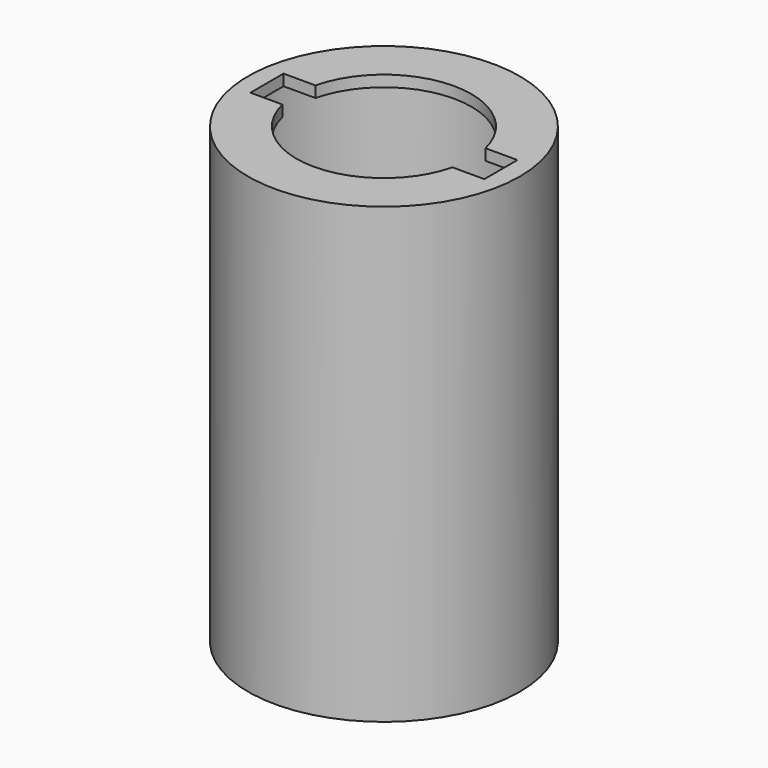
from build123d import *

# Parameters (mm, degrees)
F0_R     = 17.075
F0_R_2   = 16.075
F1_DEPTH = 57
F2_R     = 16.075
F3_DEPTH = 1.4
F4_R     = 16.075
F4_R_2   = 9.7
F5_DEPTH = 1.5


with BuildPart() as f1:
    # F0 (on Top) → F1 (new body)
    with BuildSketch(Plane.XY):
        Circle(F0_R)
        Circle(F0_R_2, mode=Mode.SUBTRACT)
    extrude(amount=-F1_DEPTH)

    # F2 (on face) → F3 (join)
    with BuildSketch(Plane.XY):
        Circle(F2_R)
        with BuildLine():
            ThreePointArc((-10.6883113727, 2.6), (0, 11), (10.6883113727, 2.6))
            Line((10.6883113727, 2.6), (14.7, 2.6))
            Line((14.7, 2.6), (14.7, 0))
            Line((14.7, 0), (14.7, -2.6))
            Line((14.7, -2.6), (10.6883113727, -2.6))
            ThreePointArc((10.6883113727, -2.6), (0, -11), (-10.6883113727, -2.6))
            Line((-10.6883113727, -2.6), (-14.7, -2.6))
            Line((-14.7, -2.6), (-14.7, 0))
            Line((-14.7, 0), (-14.7, 2.6))
            Line((-14.7, 2.6), (-10.6883113727, 2.6))
        make_face(mode=Mode.SUBTRACT)
    extrude(amount=-F3_DEPTH)

    # F4 (on face) → F5 (join)
    with BuildSketch(Plane(origin=(0, 0, -57), x_dir=(1, 0, 0), z_dir=(0, 0, -1))):
        Circle(F4_R)
        Circle(F4_R_2, mode=Mode.SUBTRACT)
    extrude(amount=-F5_DEPTH)


solid = f1.part
